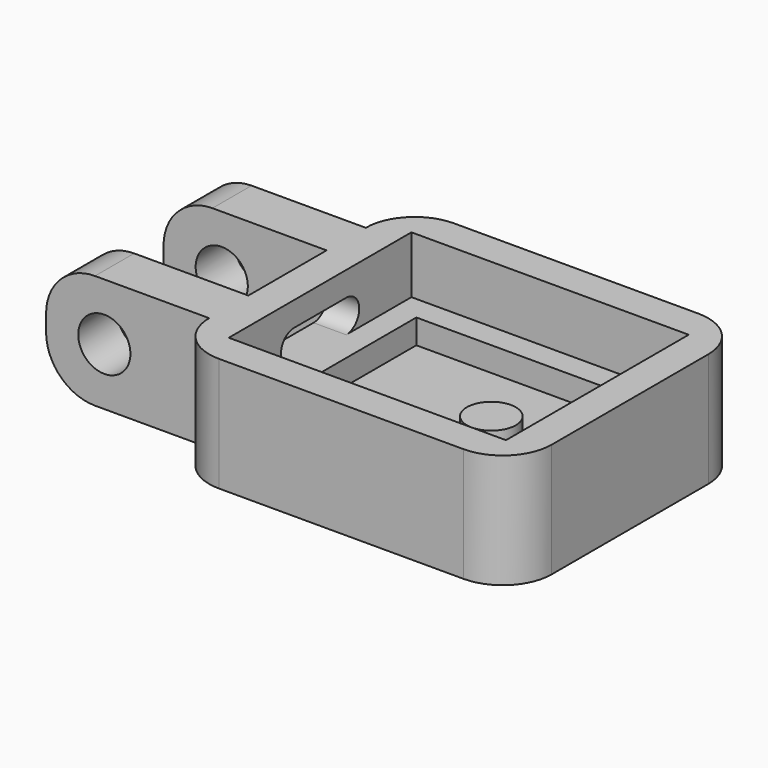
from build123d import *

# Parameters (mm, degrees)
SKETCH_W        = 21
SKETCH_H        = 18
PAD_DEPTH       = 7
SKETCH001_W     = 17
SKETCH001_H     = 14
POCKET_DEPTH    = 5
SKETCH003_W     = 17
SKETCH003_H     = 1.5
PAD001_DEPTH    = 1.5
SKETCH004_W     = 1.5
SKETCH004_H     = 11
PAD002_DEPTH    = 1.5
POCKET001_DEPTH = 5
FILLET_R        = 3
SKETCH006_W     = 3.5
SKETCH006_H     = 2.5
POCKET002_DEPTH = 5
SKETCH007_R     = 1.5
PAD003_DEPTH    = 3
SKETCH008_W     = 3
SKETCH008_H     = 7
PAD004_DEPTH    = 10
SKETCH009_R     = 1.6
POCKET003_DEPTH = 15.001
FILLET001_R     = 3
FILLET002_R     = 1


with BuildPart() as part:
    # Sketch → Pad (new body)
    with BuildSketch(Plane.XY):
        with Locations((-10.5, 9)):
            Rectangle(SKETCH_W, SKETCH_H)
    extrude(amount=PAD_DEPTH)

    # Sketch001 (on Face6 of Pad) → Pocket (cut)
    with BuildSketch(Plane.XY.offset(7)):
        with Locations((-10.5, 9)):
            Rectangle(SKETCH001_W, SKETCH001_H)
    extrude(amount=-POCKET_DEPTH, mode=Mode.SUBTRACT)

    # Sketch003 (on Face11 of Pocket) → Pad001 (join)
    with BuildSketch(Plane.XY.offset(2)):
        with Locations((-10.5, 15.25)):
            Rectangle(SKETCH003_W, SKETCH003_H)
        with Locations((-10.5, 2.75)):
            Rectangle(SKETCH003_W, SKETCH003_H)
    extrude(amount=PAD001_DEPTH)

    # Sketch004 (on Face14 of Pad001) → Pad002 (join)
    with BuildSketch(Plane.XY.offset(2)):
        with Locations((-18.25, 9)):
            Rectangle(SKETCH004_W, SKETCH004_H)
        with Locations((-2.75, 9)):
            Rectangle(SKETCH004_W, SKETCH004_H)
    extrude(amount=PAD002_DEPTH)

    # Sketch005 (on Face10 of Pad002) → Pocket001 (cut)
    with BuildSketch(Plane.YZ.offset(-19)):
        with BuildLine():
            ThreePointArc((7, 5.5), (6, 4.5), (7, 3.5))
            Line((7, 3.5), (11, 3.5))
            ThreePointArc((11, 3.5), (12, 4.5), (11, 5.5))
            Line((7, 5.5), (11, 5.5))
        make_face()
    extrude(amount=-POCKET001_DEPTH, mode=Mode.SUBTRACT)

    # Fillet
    fillet_edges = [part.edges().sort_by_distance(p)[0] for p in [
        (0, 0, 3.5),
        (-21, 0, 3.5),
        (-21, 18, 3.5),
        (0, 18, 3.5),
    ]]
    fillet(fillet_edges, radius=FILLET_R)

    # Sketch006 (on Face23 of Pocket001) → Pocket002 (cut)
    with BuildSketch(Plane.XY.offset(2)):
        with Locations((-5.75, 11.75)):
            Rectangle(SKETCH006_W, SKETCH006_H)
    extrude(amount=-POCKET002_DEPTH, mode=Mode.SUBTRACT)

    # Sketch007 (on Face23 of Pocket002) → Pad003 (join)
    with BuildSketch(Plane.XY.offset(2)):
        with Locations((-6.5, 6.5)):
            Circle(SKETCH007_R)
    extrude(amount=PAD003_DEPTH)

    # Sketch008 (on Face7 of Pad003) → Pad004 (join)
    with BuildSketch(Plane(origin=(-21, 0, 0), x_dir=(0, -1, 0), z_dir=(-1, 0, 0))):
        with Locations((-13.5, 3.5)):
            Rectangle(SKETCH008_W, SKETCH008_H)
        with Locations((-4.5, 3.5)):
            Rectangle(SKETCH008_W, SKETCH008_H)
    extrude(amount=PAD004_DEPTH)

    # Sketch009 (on Face17 of Pad004) → Pocket003 (cut, through all)
    with BuildSketch(Plane.XZ.offset(-3)):
        with Locations((-27.429286, 3.5)):
            Circle(SKETCH009_R)
    extrude(amount=-POCKET003_DEPTH, mode=Mode.SUBTRACT)

    # Fillet001
    fillet001_edges = [part.edges().sort_by_distance(p)[0] for p in [
        (-31, 4.5, 7),
        (-31, 4.5, 0),
        (-31, 13.5, 0),
        (-31, 13.5, 7),
    ]]
    fillet(fillet001_edges, radius=FILLET001_R)

    # Fillet002
    fillet002_edges = [part.edges().sort_by_distance(p)[0] for p in [
        (-5.75, 13, 0),
        (-7.5, 11.75, 0),
        (-5.75, 10.5, 0),
        (-4, 11.75, 0),
    ]]
    fillet(fillet002_edges, radius=FILLET002_R)


solid = part.part
